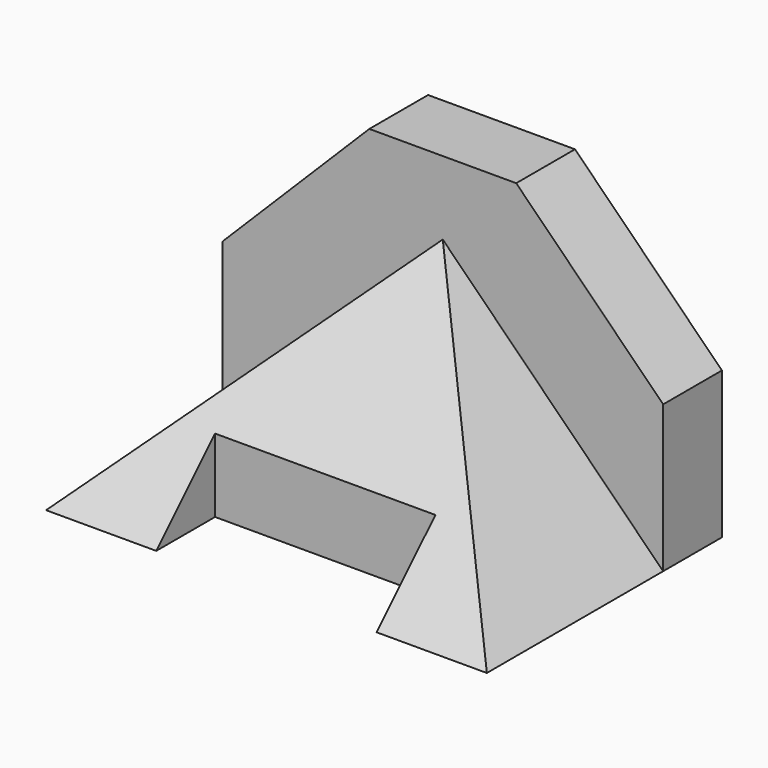
from build123d import *

# Parameters (mm, degrees)
F0_W     = 38.1
F0_H     = 25.4
F1_DEPTH = 25.4
F3_DEPTH = 25.4
F5_DEPTH = 19.05
F7_DEPTH = 558.8
F8_W     = 19.05
F8_H     = 6.35
F9_DEPTH = 25.4


with BuildPart() as f1:
    # F0 (on Front) → F1 (new body)
    with BuildSketch(Plane.XZ):
        with Locations((19.05, 12.7)):
            Rectangle(F0_W, F0_H)
    extrude(amount=F1_DEPTH)

    # F2 (on face) → F3 (cut)
    with BuildSketch(Plane.XZ.offset(25.4)):
        Polygon((12.7, 25.4), (0, 25.4), (0, 12.7), align=None)
        Polygon((38.1, 12.7), (38.1, 25.4), (25.4, 25.4), align=None)
    extrude(amount=-F3_DEPTH, mode=Mode.SUBTRACT)

    # F4 (on face) → F5 (cut)
    with BuildSketch(Plane.XZ.offset(25.4)):
        Polygon((0, 0), (19.05, 19.05), (38.1, 0), (38.1, 12.7), (25.4, 25.4), (12.7, 25.4), (0, 12.7), align=None)
    extrude(amount=-F5_DEPTH, mode=Mode.SUBTRACT)

    # F6 (on Right) → F7 (cut)
    with BuildSketch(Plane.YZ):
        Polygon((-25.4, 19.05), (-25.4, 0), (-6.35, 19.05), align=None)
    extrude(amount=F7_DEPTH, mode=Mode.SUBTRACT)

    # F8 (on face) → F9 (cut)
    with BuildSketch(Plane(origin=(0, 0, 0), x_dir=(1, 0, 0), z_dir=(0, 0, -1))):
        with Locations((19.05, 22.225)):
            Rectangle(F8_W, F8_H)
    extrude(amount=-F9_DEPTH, mode=Mode.SUBTRACT)


solid = f1.part
